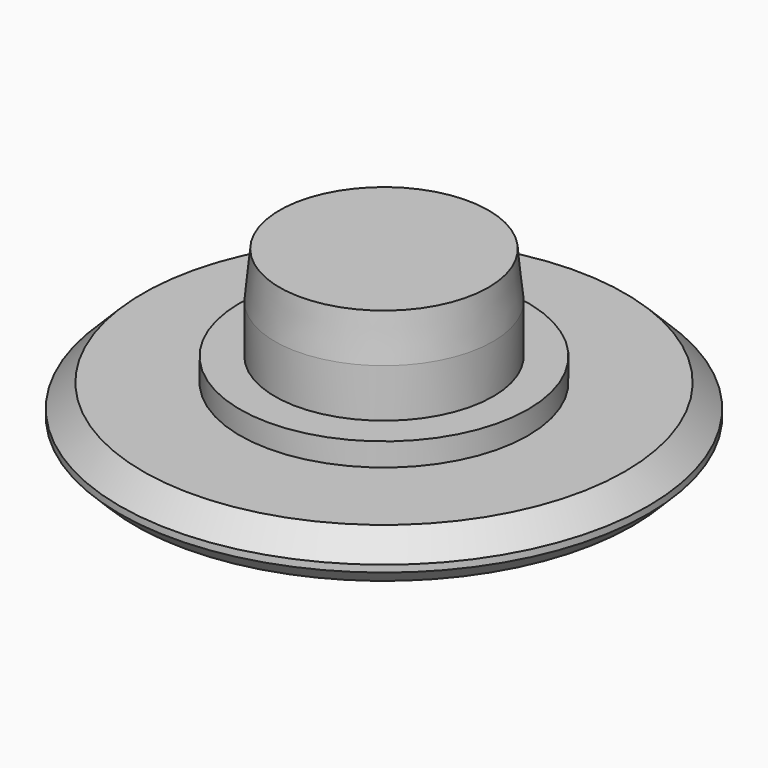
from build123d import *

# Parameters (mm, degrees)
F0_R     = 8.73125
F0_R_2   = 4.7625
F0_R_3   = 3.6068
F1_DEPTH = 1.4986
F2_DEPTH = 2.2606
F3_DEPTH = 5.3848
F4_SIZE  = 0.762
F5_SIZE  = 0.508
F6_SIZE2 = 1.524
F6_SIZE  = 0.1524


with BuildPart() as f1:
    # F0 (on Top) → F1 (new body)
    with BuildSketch(Plane.XY):
        Circle(F0_R)
        Circle(F0_R_2, mode=Mode.SUBTRACT)
        Circle(F0_R_2)
        Circle(F0_R_3, mode=Mode.SUBTRACT)
        Circle(F0_R_3)
    extrude(amount=F1_DEPTH)

    # F0 (on Top) → F2 (join)
    with BuildSketch(Plane.XY):
        Circle(F0_R_2)
        Circle(F0_R_3, mode=Mode.SUBTRACT)
        Circle(F0_R_3)
    extrude(amount=F2_DEPTH)

    # F0 (on Top) → F3 (join)
    with BuildSketch(Plane.XY):
        Circle(F0_R_3)
    extrude(amount=F3_DEPTH)

    # F4
    f4_edges = [f1.edges().sort_by_distance(p)[0] for p in [
        (-8.73125, 0, 1.4986),
    ]]
    chamfer(f4_edges, length=F4_SIZE)

    # F5
    f5_edges = [f1.edges().sort_by_distance(p)[0] for p in [
        (-8.73125, 0, 0),
    ]]
    chamfer(f5_edges, length=F5_SIZE)

    # F6
    f6_edges = [f1.edges().sort_by_distance(p)[0] for p in [
        (-3.6068, 0, 5.3848),
    ]]
    f6_side = f1.faces().sort_by_distance((0, 0, 5.3848))[0]
    chamfer(f6_edges, length=F6_SIZE, length2=F6_SIZE2, reference=f6_side)


solid = f1.part
